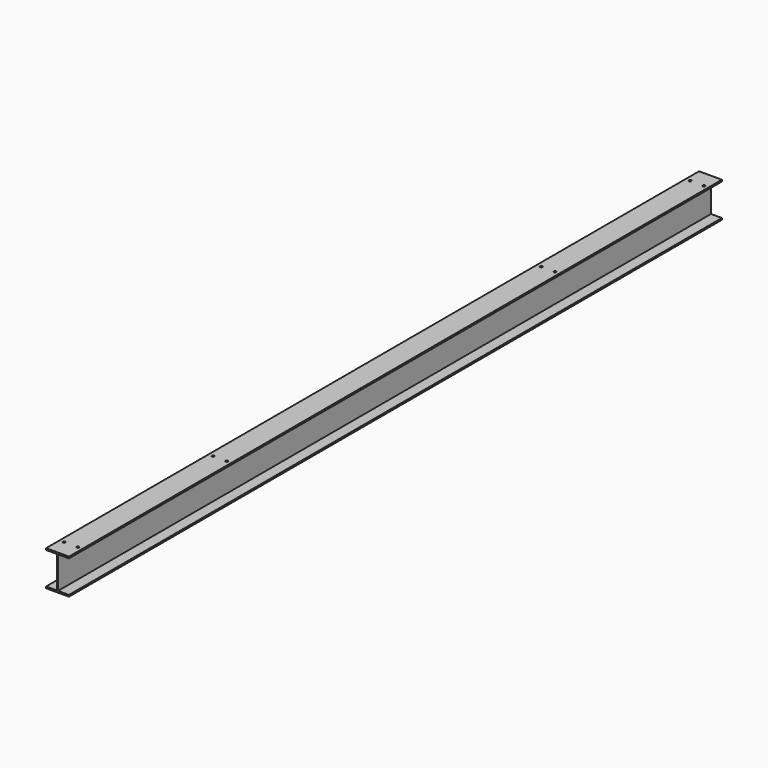
from build123d import *

# Parameters (mm, degrees)
F0_W     = 63.75
F0_H     = 9.6
F0_W_2   = 6.3
F0_H_2   = 187.6
F1_DEPTH = 4775
F3_D     = 14
F3_DEPTH = 10
F3_TIP   = 4.2060243332


with BuildPart() as f1:
    # F0 (on Front) → F1 (new body)
    with BuildSketch(Plane.XZ):
        with Locations((35.025, 177.9478398199)):
            Rectangle(F0_W, F0_H)
        with Locations((-35.025, 177.9478398199)):
            Rectangle(F0_W, F0_H)
        with Locations((0, 177.9478398199)):
            Rectangle(F0_W_2, F0_H)
        with Locations((0, 79.3478398199)):
            Rectangle(F0_W_2, F0_H_2)
        with Locations((-35.025, -19.2521601801)):
            Rectangle(F0_W, F0_H)
        with Locations((0, -19.2521601801)):
            Rectangle(F0_W_2, F0_H)
        with Locations((35.025, -19.2521601801)):
            Rectangle(F0_W, F0_H)
    extrude(amount=F1_DEPTH)

    # F3
    with Locations(Plane.XY.offset(182.7478398199)):
        with Locations((-40, -98.5), (40, -98.5), (-40, -1187.5), (40, -1187.5), (-40, -3587.5), (40, -3587.5), (-40, -4676.5), (40, -4676.5)):
            Hole(F3_D / 2, depth=F3_DEPTH)
            with Locations((0, 0, -(F3_DEPTH + F3_TIP / 2))):  # 118° drill point
                Cone(0, F3_D / 2, F3_TIP, mode=Mode.SUBTRACT)


solid = f1.part
